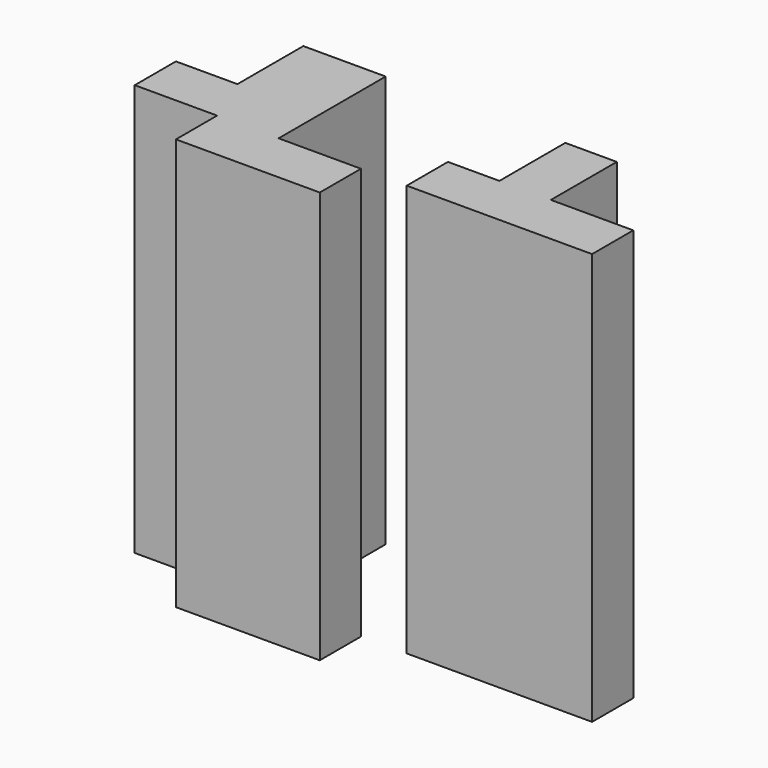
from build123d import *

# Parameters (mm, degrees)
F1_DEPTH = 40


with BuildPart() as f1:
    # F0 (on Top) → F1 (new body)
    with BuildSketch(Plane.XY):
        Polygon((-18, 0), (0, 0), (0, 5), (-8, 5), (-8, 13), (-13, 13), (-13, 5), (-18, 5), align=None)
        Polygon((-22.445577, -5), (-22.445577, 0), (-30.445577, 0), (-30.445577, 13), (-38.445577, 13), (-38.445577, 5), (-44.418678, 5), (-44.418678, 0), (-36.418678, 0), (-36.418678, -5), align=None)
    extrude(amount=F1_DEPTH)


solid = f1.part
